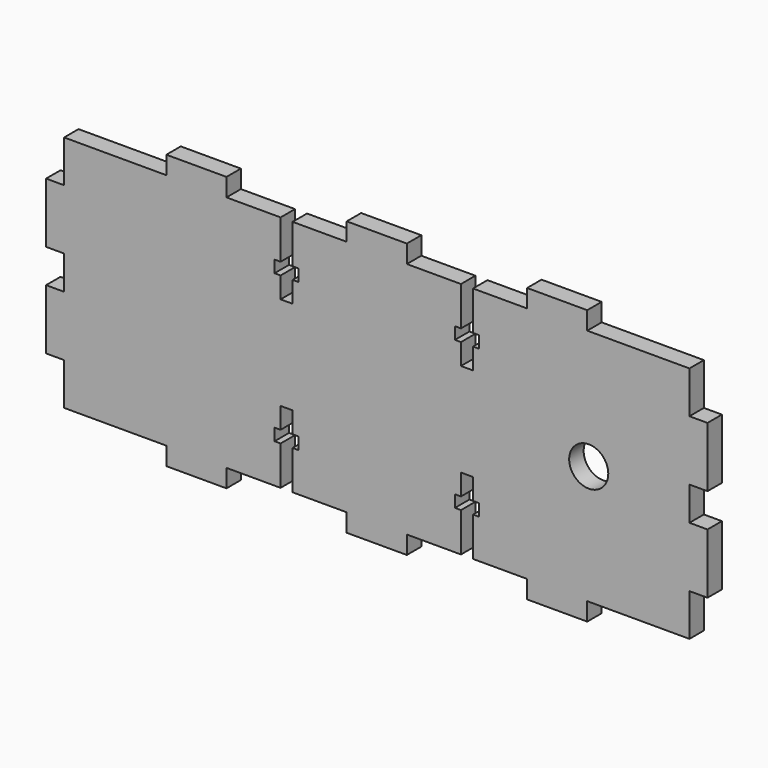
from build123d import *

# Parameters (mm, degrees)
F0_R     = 3.25
F1_DEPTH = 3


with BuildPart() as f1:
    # F0 (on Front) → F1 (new body)
    with BuildSketch(Plane.XZ):
        Polygon((3, 2.8), (3, 0), (3, -2.8), (0, -2.8), (0, -12.8), (3, -12.8), (3, -19.8), (20, -19.8), (20, -22.8), (30, -22.8), (30, -19.8), (39, -19.8), (39, -13.3), (38, -13.3), (38, -11.3), (39, -11.3), (39, -7.8), (41, -7.8), (41, -11.3), (42, -11.3), (42, -13.3), (41, -13.3), (41, -19.8), (50, -19.8), (50, -22.8), (55, -22.8), (60, -22.8), (60, -19.8), (69, -19.8), (69, -13.3), (68, -13.3), (68, -11.3), (69, -11.3), (69, -7.8), (71, -7.8), (71, -11.3), (72, -11.3), (72, -13.3), (71, -13.3), (71, -19.8), (80, -19.8), (80, -22.8), (90, -22.8), (90, -19.8), (107, -19.8), (107, -12.8), (110, -12.8), (110, -2.8), (107, -2.8), (107, 0), (107, 2.8), (110, 2.8), (110, 12.8), (107, 12.8), (107, 19.8), (90, 19.8), (90, 22.8), (80, 22.8), (80, 19.8), (71, 19.8), (71, 13.3), (72, 13.3), (72, 11.3), (71, 11.3), (71, 7.8), (69, 7.8), (69, 11.3), (68, 11.3), (68, 13.3), (69, 13.3), (69, 19.8), (60, 19.8), (60, 22.8), (55, 22.8), (50, 22.8), (50, 19.8), (41, 19.8), (41, 13.3), (42, 13.3), (42, 11.3), (41, 11.3), (41, 7.8), (39, 7.8), (39, 11.3), (38, 11.3), (38, 13.3), (39, 13.3), (39, 19.8), (30, 19.8), (30, 22.8), (20, 22.8), (20, 19.8), (3, 19.8), (3, 12.8), (0, 12.8), (0, 2.8), align=None)
        with Locations((90.25, 0)):
            Circle(F0_R, mode=Mode.SUBTRACT)
    extrude(amount=F1_DEPTH)


solid = f1.part
